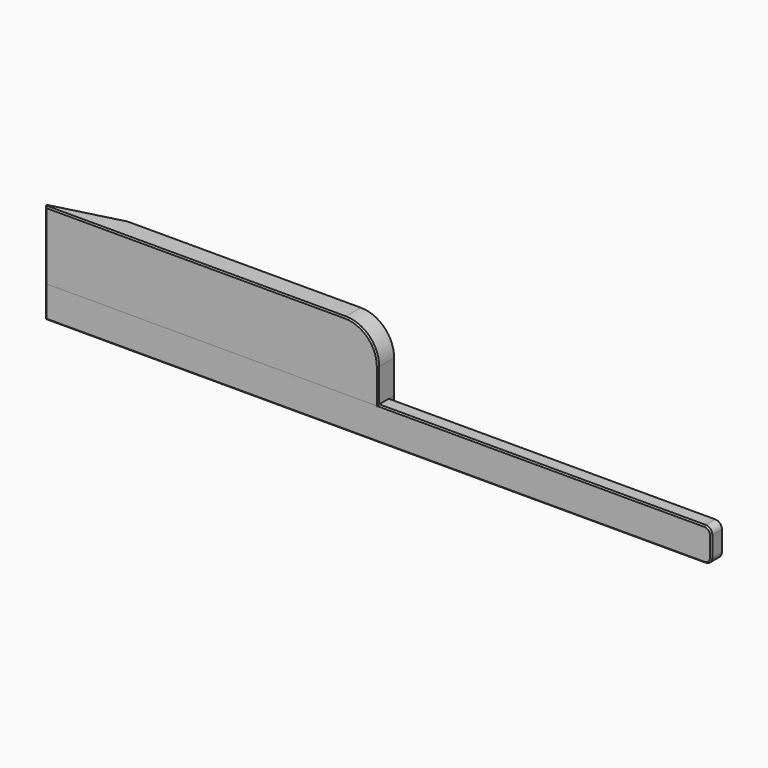
from build123d import *

# Parameters (mm, degrees)
PAD_DEPTH       = 15
FILLET_R        = 5
CHAMFER_SIZE    = 0.2
PAD001_DEPTH    = 5
FILLET001_R     = 1
CHAMFER001_SIZE = 0.2


with BuildPart() as short:
    # Sketch → Pad (new body)
    with BuildSketch(Plane.XY):
        Polygon((0, 0), (0, 0.4), (10, 3), (50, 3), (50, 0), align=None)
    extrude(amount=PAD_DEPTH)

    # Fillet
    fillet_edges = [short.edges().sort_by_distance(p)[0] for p in [
        (50, 1.5, 15),
        (50, 1.5, 0),
    ]]
    fillet(fillet_edges, radius=FILLET_R)

    # Chamfer
    chamfer_edges = [short.edges().sort_by_distance(p)[0] for p in [
        (50, 0, 7.5),
        (48.535534, 0, 1.464466),
        (48.535534, 0, 13.535534),
        (22.5, 0, 0),
        (22.5, 0, 15),
        (0, 0, 7.5),
    ]]
    chamfer(chamfer_edges, length=CHAMFER_SIZE)


with BuildPart() as long:
    # Sketch001 → Pad001 (new body)
    with BuildSketch(Plane.XY):
        Polygon((0, 0), (0, 0.4), (10, 2), (100, 2), (100, 0), align=None)
    extrude(amount=PAD001_DEPTH)

    # Fillet001
    fillet001_edges = [long.edges().sort_by_distance(p)[0] for p in [
        (100, 1, 5),
        (100, 1, 0),
    ]]
    fillet(fillet001_edges, radius=FILLET001_R)

    # Chamfer001
    chamfer001_edges = [long.edges().sort_by_distance(p)[0] for p in [
        (100, 0, 2.5),
        (99.707107, 0, 0.292893),
        (99.707107, 0, 4.707107),
        (49.5, 0, 0),
        (49.5, 0, 5),
        (0, 0, 2.5),
    ]]
    chamfer(chamfer001_edges, length=CHAMFER001_SIZE)


solid = Compound([short.part, long.part])
